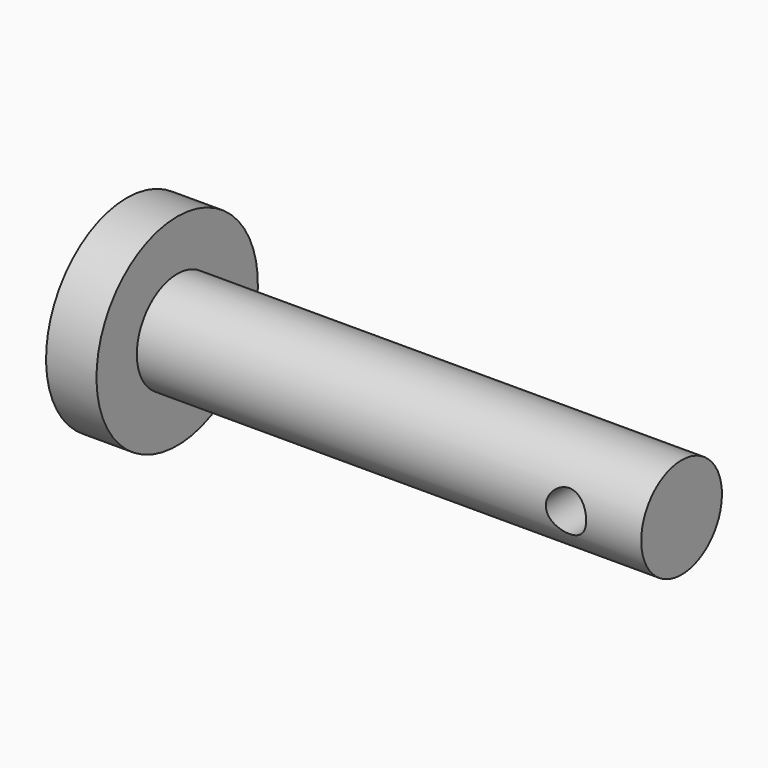
from build123d import *

# Parameters (mm, degrees)
F2_R     = 4
F3_DEPTH = 50


with BuildPart() as f1:
    # F0 (on Front) → F1 (revolve)
    with BuildSketch(Plane.XZ):
        Polygon((-75.0875687358, 20), (-75.0875687358, 0), (34.9124312642, 0), (34.9124312642, 10), (-65.0875687358, 10), (-65.0875687358, 20), align=None)
    revolve(axis=Axis((-20.0875687358, 0, 0), (-1, 0, 0)))

    # F2 (on Front) → F3 (cut, symmetric)
    with BuildSketch(Plane.XZ):
        with Locations((20, 0)):
            Circle(F2_R)
    extrude(amount=F3_DEPTH, both=True, mode=Mode.SUBTRACT)


solid = f1.part
